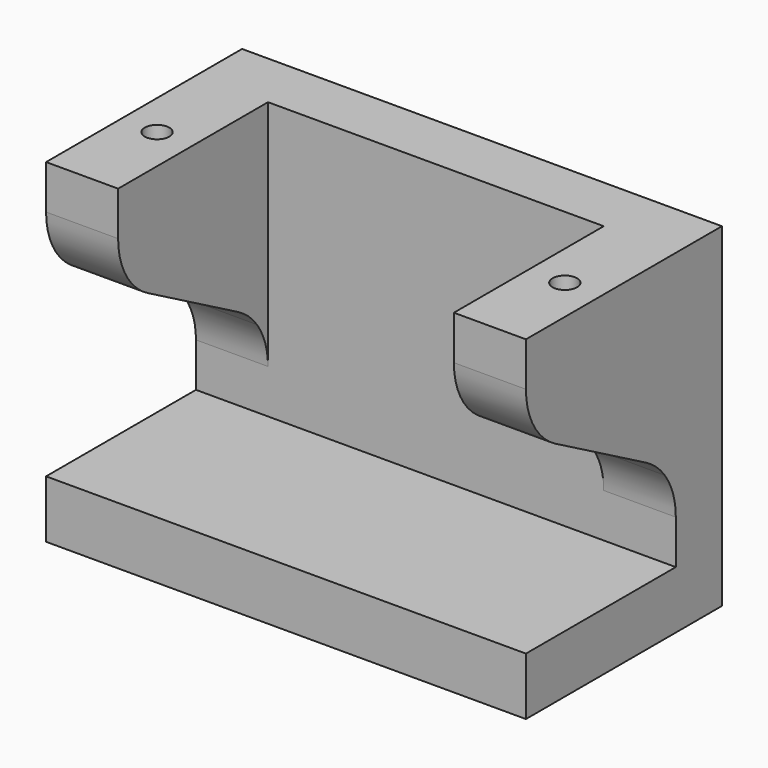
from build123d import *

# Parameters (mm, degrees)
F1_W     = 5
F1_H     = 7.2
F1_H_2   = 6
F1_H_3   = 4
F1_W_2   = 23.3
F3_DEPTH = 8.5
F0_W     = 23.3
F0_H     = 4
F4_DEPTH = 23.2
F5_DEPTH = 18.1
F6_START = 4.3
F0_R     = 0.85
F6_DEPTH = 20.7


with BuildPart() as f3:
    # F1 (on Front) → F3 (new body, symmetric)
    with BuildSketch(Plane.XZ):
        with Locations((-14.15, 13.6)):
            Rectangle(F1_W, F1_H)
        with Locations((-14.15, 20.2)):
            Rectangle(F1_W, F1_H_2)
        with Locations((-14.15, 7)):
            Rectangle(F1_W, F1_H_2)
        with Locations((-14.15, 2)):
            Rectangle(F1_W, F1_H_3)
        with Locations((0, 2)):
            Rectangle(F1_W_2, F1_H_3)
        with Locations((14.15, 2)):
            Rectangle(F1_W, F1_H_3)
        with Locations((14.15, 7)):
            Rectangle(F1_W, F1_H_2)
        with Locations((14.15, 13.6)):
            Rectangle(F1_W, F1_H)
        with Locations((14.15, 20.2)):
            Rectangle(F1_W, F1_H_2)
    extrude(amount=F3_DEPTH, both=True)

    # F0 (on Top) → F4 (join)
    with BuildSketch(Plane.XY):
        with Locations((0, 6.5)):
            Rectangle(F0_W, F0_H)
    extrude(amount=F4_DEPTH)

    # F2 (on Right) → F5 (cut, symmetric)
    with BuildSketch(Plane.YZ):
        with BuildLine():
            Line((-8.5, 17.2), (-8.5, 10))
            Line((-8.5, 10), (3.5396314061, 10))
            ThreePointArc((3.5396314061, 10), (2.8089650426, 10.8020152096), (1.9224991399, 11.4275389379))
            Line((1.9224991399, 11.4275389379), (-5.9224991399, 15.7724610621))
            ThreePointArc((-5.9224991399, 15.7724610621), (-6.8089650426, 16.3979847904), (-7.5396314061, 17.2))
            Line((-7.5396314061, 17.2), (-8.5, 17.2))
        make_face()
        with BuildLine():
            Line((-8.5, 20.1464178425), (-8.5, 17.2))
            Line((-8.5, 17.2), (-7.5396314061, 17.2))
            ThreePointArc((-7.5396314061, 17.2), (-8.2538488107, 18.5969271247), (-8.5, 20.1464178425))
        make_face()
        with BuildLine():
            Line((-8.5, 10), (-8.5, 4))
            Line((-8.5, 4), (4.5, 4))
            Line((4.5, 4), (4.5, 7.0535821575))
            ThreePointArc((4.5, 7.0535821575), (4.2538488107, 8.6030728753), (3.5396314061, 10))
            Line((3.5396314061, 10), (-8.5, 10))
        make_face()
    extrude(amount=F5_DEPTH, both=True, mode=Mode.SUBTRACT)

    # F0 (on Top) → F6 (cut)
    with BuildSketch(Plane.XY.offset(F6_START)):
        with Locations((14.15, -2)):
            Circle(F0_R)
        with Locations((-14.15, -2)):
            Circle(F0_R)
    extrude(amount=F6_DEPTH, mode=Mode.SUBTRACT)


solid = f3.part
